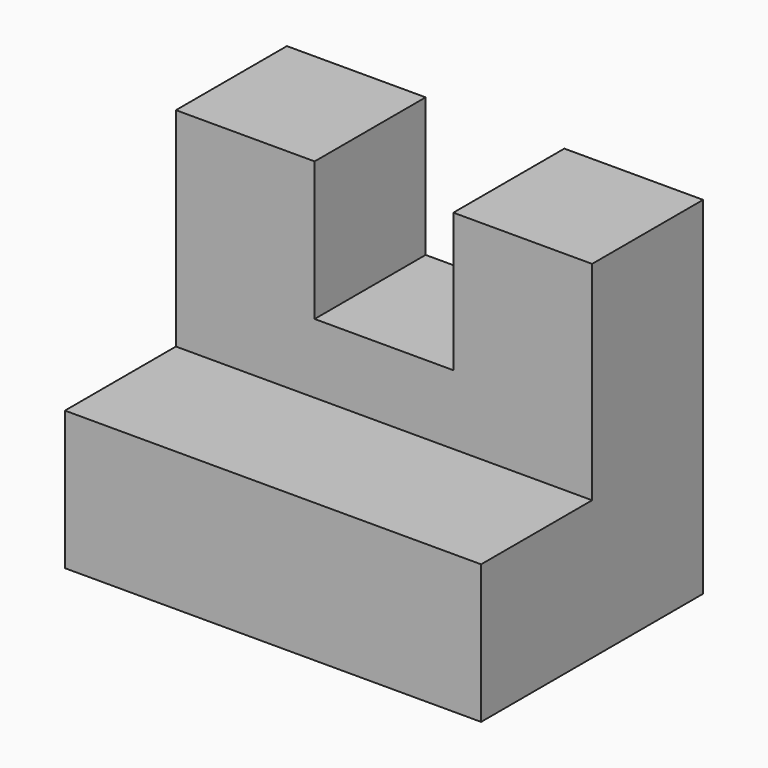
from build123d import *

# Parameters (mm, degrees)
F1_DEPTH = 38.1
F2_W     = 12.7
F2_H     = 12.7
F3_DEPTH = 228.6


with BuildPart() as f1:
    # F0 (on Right) → F1 (new body)
    with BuildSketch(Plane.YZ):
        Polygon((-25.4, 0), (0, 0), (0, 31.75), (-12.7, 31.75), (-12.7, 12.7), (-25.4, 12.7), align=None)
    extrude(amount=F1_DEPTH)

    # F2 (on Front) → F3 (cut)
    with BuildSketch(Plane.XZ):
        with Locations((19.05, 25.4)):
            Rectangle(F2_W, F2_H)
    extrude(amount=F3_DEPTH, mode=Mode.SUBTRACT)


solid = f1.part
